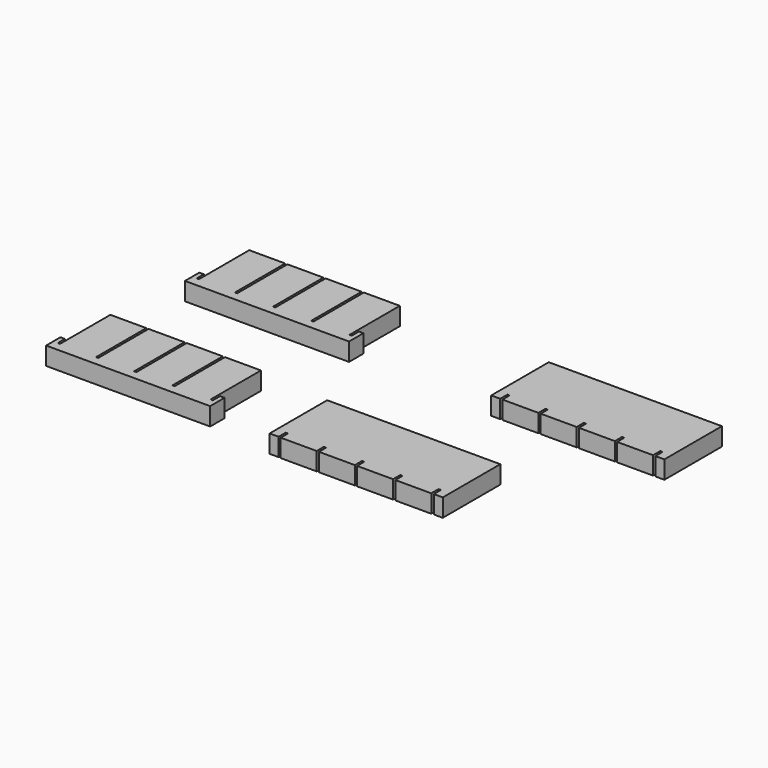
from build123d import *

# Parameters (mm, degrees)
F1_DEPTH = 25.4


with BuildPart() as f1:
    # F0 (on Top) → F1 (new body)
    with BuildSketch(Plane.XY):
        Polygon((-698.396364, 490.385244), (-688.871364, 490.385244), (-582.508864, 490.385244), (-582.508864, 503.085244), (-584.096364, 503.085244), (-584.096364, 591.985244), (-634.896364, 591.985244), (-634.896364, 503.085244), (-638.071364, 503.085244), (-638.071364, 591.985244), (-688.871364, 591.985244), (-688.871364, 503.085244), (-692.046364, 503.085244), (-692.046364, 515.785244), (-698.396364, 515.785244), align=None)
        Polygon((-582.508864, 503.085244), (-582.508864, 490.385244), (-476.146364, 490.385244), (-466.621364, 490.385244), (-466.621364, 515.785244), (-472.971364, 515.785244), (-472.971364, 503.085244), (-476.146364, 503.085244), (-476.146364, 591.985244), (-526.946364, 591.985244), (-526.946364, 503.085244), (-530.121364, 503.085244), (-530.121364, 591.985244), (-580.921364, 591.985244), (-580.921364, 503.085244), align=None)
        Polygon((-247.784059, 500.509252), (-247.784059, 487.809252), (-196.984059, 487.809252), (-196.984059, 500.509252), (-193.809059, 500.509252), (-193.809059, 487.809252), (-143.009059, 487.809252), (-143.009059, 500.509252), (-139.834059, 500.509252), (-139.834059, 487.809252), (-89.034059, 487.809252), (-89.034059, 500.509252), (-85.859059, 500.509252), (-85.859059, 487.809252), (-35.059059, 487.809252), (-35.059059, 500.509252), (-31.757059, 500.509252), (-31.757059, 487.809252), (-19.057059, 487.809252), (-19.057059, 589.409252), (-263.659059, 589.409252), (-263.659059, 487.809252), (-250.959059, 487.809252), (-250.959059, 500.509252), align=None)
        Polygon((-381.951268, 276.897242), (-381.951268, 263.873304), (-331.151268, 263.873304), (-331.151268, 276.573304), (-327.976268, 276.573304), (-327.976268, 263.873304), (-277.176268, 263.873304), (-277.176268, 276.573304), (-274.001268, 276.573304), (-274.001268, 263.873304), (-223.201268, 263.873304), (-223.201268, 276.573304), (-220.026268, 276.573304), (-220.026268, 263.873304), (-169.226268, 263.873304), (-169.226268, 276.897242), (-165.924268, 276.897242), (-165.924268, 264.197242), (-153.224268, 264.197242), (-153.224268, 365.797242), (-397.826268, 365.797242), (-397.826268, 264.197242), (-385.126268, 264.197242), (-385.126268, 276.897242), align=None)
        Polygon((-721.572691, 274.138915), (-712.047691, 274.138915), (-605.685191, 274.138915), (-605.685191, 286.838915), (-607.272691, 286.838915), (-607.272691, 375.738915), (-658.072691, 375.738915), (-658.072691, 286.838915), (-661.247691, 286.838915), (-661.247691, 375.738915), (-712.047691, 375.738915), (-712.047691, 286.838915), (-715.222691, 286.838915), (-715.222691, 299.538915), (-721.572691, 299.538915), align=None)
        Polygon((-605.685191, 286.838915), (-605.685191, 274.138915), (-499.322691, 274.138915), (-489.797691, 274.138915), (-489.797691, 299.538915), (-496.147691, 299.538915), (-496.147691, 286.838915), (-499.322691, 286.838915), (-499.322691, 375.738915), (-550.122691, 375.738915), (-550.122691, 286.838915), (-553.297691, 286.838915), (-553.297691, 375.738915), (-604.097691, 375.738915), (-604.097691, 286.838915), align=None)
    extrude(amount=F1_DEPTH)


solid = f1.part
